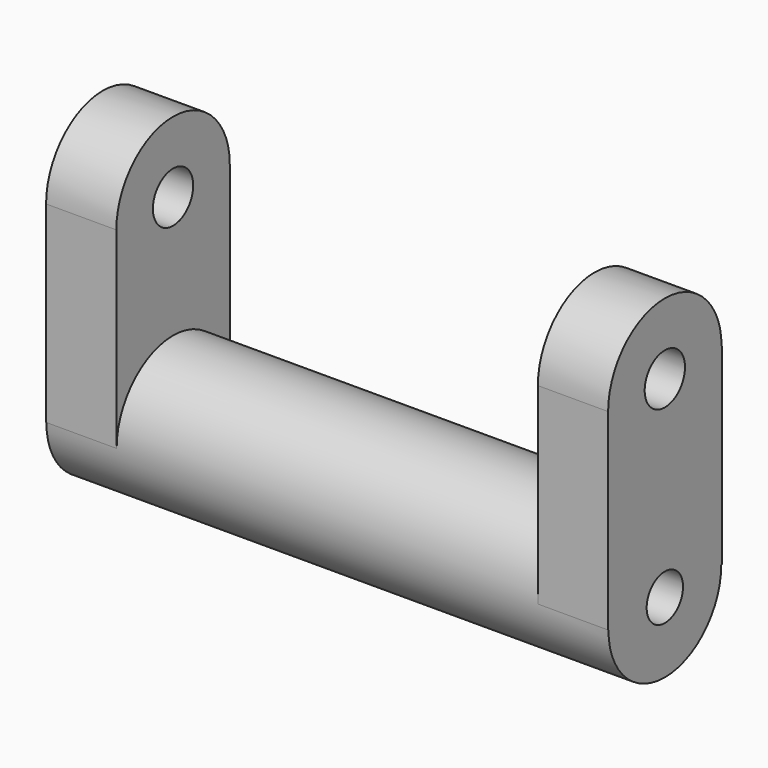
from build123d import *

# Parameters (mm, degrees)
F0_R     = 12.7485465516
F2_DEPTH = 50.8
F4_DEPTH = 50.8
F6_DEPTH = 38.1
F7_DEPTH = 50.8
F8_R     = 4.5528503381
F8_R_2   = 4.1100274938
F9_DEPTH = 101.601


with BuildPart() as f2:
    # F0 (on Right) → F2 (new body)
    with BuildSketch(Plane.YZ):
        Circle(F0_R)
    extrude(amount=F2_DEPTH)

    # F3: F2 across plane


with BuildPart() as f2_1:
    add(f2.part)
    add(f2.part.mirror(Plane.YZ))

    # F1 (on Right) → F4 (join)
    with BuildSketch(Plane.YZ):
        with BuildLine():
            Line((-12.815132901, 34.7624458373), (12.815132901, 34.7624458373))
            ThreePointArc((12.815132901, 34.7624458373), (0, 47.5775787383), (-12.815132901, 34.7624458373))
        make_face()
        with BuildLine():
            Line((12.8961233422, 34.7624458373), (12.815132901, 34.7624458373))
            ThreePointArc((12.815132901, 34.7624458373), (0, 21.9473129363), (-12.815132901, 34.7624458373))
            Line((-12.815132901, 34.7624458373), (-12.815132901, 0))
            Line((-12.815132901, 0), (12.8961233422, 0))
            Line((12.8961233422, 0), (12.8961233422, 34.7624458373))
        make_face()
        with BuildLine():
            ThreePointArc((-12.815132901, 34.7624458373), (0, 21.9473129363), (12.815132901, 34.7624458373))
            Line((12.815132901, 34.7624458373), (-12.815132901, 34.7624458373))
        make_face()
    extrude(amount=F4_DEPTH)

    # F5: F2 across plane


with BuildPart() as f2_2:
    add(f2_1.part)
    add(f2_1.part.mirror(Plane.YZ))

    # F1 (on Right) → F6 (cut, symmetric)
    with BuildSketch(Plane.YZ):
        with BuildLine():
            Line((-12.815132901, 34.7624458373), (12.815132901, 34.7624458373))
            ThreePointArc((12.815132901, 34.7624458373), (0, 47.5775787383), (-12.815132901, 34.7624458373))
        make_face()
        with BuildLine():
            Line((12.8961233422, 34.7624458373), (12.815132901, 34.7624458373))
            ThreePointArc((12.815132901, 34.7624458373), (0, 21.9473129363), (-12.815132901, 34.7624458373))
            Line((-12.815132901, 34.7624458373), (-12.815132901, 0))
            Line((-12.815132901, 0), (12.8961233422, 0))
            Line((12.8961233422, 0), (12.8961233422, 34.7624458373))
        make_face()
        with BuildLine():
            ThreePointArc((-12.815132901, 34.7624458373), (0, 21.9473129363), (12.815132901, 34.7624458373))
            Line((12.815132901, 34.7624458373), (-12.815132901, 34.7624458373))
        make_face()
    extrude(amount=F6_DEPTH, both=True, mode=Mode.SUBTRACT)

    # F0 (on Right) → F7 (join, symmetric)
    with BuildSketch(Plane.YZ):
        Circle(F0_R)
    extrude(amount=F7_DEPTH, both=True)

    # F8 (on face) → F9 (cut, through all)
    with BuildSketch(Plane.YZ.offset(50.8)):
        with Locations((0, 34.7624458373)):
            Circle(F8_R)
        Circle(F8_R_2)
    extrude(amount=-F9_DEPTH, mode=Mode.SUBTRACT)


solid = f2_2.part
